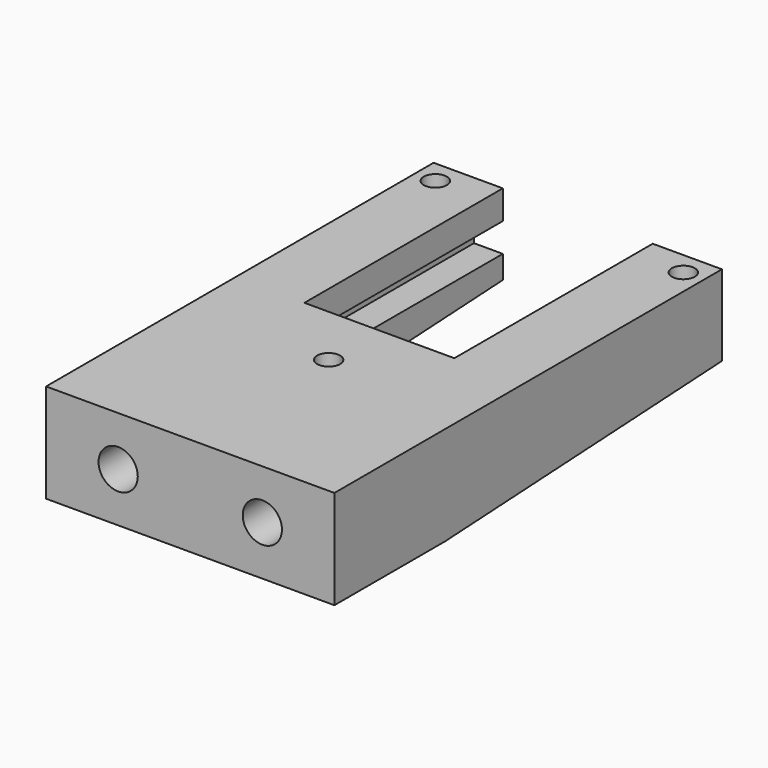
from build123d import *

# Parameters (mm, degrees)
SKETCH_W        = 50
SKETCH_H        = 60
PAD_DEPTH       = 4
SKETCH001_W     = 26
SKETCH001_H     = 26
POCKET_DEPTH    = 5
SKETCH003_W     = 50
SKETCH003_H     = 17
PAD001_DEPTH    = 10
SKETCH004_W     = 12
SKETCH004_H     = 43
PAD002_DEPTH    = 10
SKETCH005_W     = 12
SKETCH005_H     = 43
PAD003_DEPTH    = 10
SKETCH006_W     = 50
SKETCH006_H     = 5
POCKET001_DEPTH = 5
SKETCH007_W     = 50
SKETCH007_H     = 5
POCKET002_DEPTH = 5
SKETCH008_W     = 26
SKETCH008_H     = 5
POCKET003_DEPTH = 7
SKETCH009_R     = 2
POCKET004_DEPTH = 15
SKETCH010_R     = 2
POCKET005_DEPTH = 15
SKETCH011_R     = 2
POCKET006_DEPTH = 15
SKETCH014_W     = 26
SKETCH014_H     = 17
POCKET008_DEPTH = 5
SKETCH015_W     = 50
SKETCH015_H     = 60
PAD005_DEPTH    = 3.1445
POCKET009_DEPTH = 50
SKETCH018_W     = 26
SKETCH018_H     = 43
POCKET010_DEPTH = 5
SKETCH019_W     = 50
SKETCH019_H     = 17.1445
PAD006_DEPTH    = 24
SKETCH020_R     = 3.4
POCKET011_DEPTH = 24
SKETCH021_R     = 3.4
POCKET012_DEPTH = 24


with BuildPart() as part:
    # Sketch → Pad (new body)
    with BuildSketch(Plane.XY):
        with Locations((-25, -30)):
            Rectangle(SKETCH_W, SKETCH_H)
    extrude(amount=PAD_DEPTH)

    # Sketch001 → Pocket (cut)
    with BuildSketch(Plane.XY.offset(4)):
        with Locations((-25, -30)):
            Rectangle(SKETCH001_W, SKETCH001_H)
    extrude(amount=-POCKET_DEPTH, mode=Mode.SUBTRACT)

    # Sketch003 → Pad001 (new body)
    with BuildSketch(Plane.XY.offset(4)):
        with Locations((-25, -51.5)):
            Rectangle(SKETCH003_W, SKETCH003_H)
    extrude(amount=PAD001_DEPTH)

    # Sketch004 → Pad002 (new body)
    with BuildSketch(Plane.XY.offset(4)):
        with Locations((-44, -21.5)):
            Rectangle(SKETCH004_W, SKETCH004_H)
    extrude(amount=PAD002_DEPTH)

    # Sketch005 → Pad003 (new body)
    with BuildSketch(Plane.XY.offset(4)):
        with Locations((-6, -21.5)):
            Rectangle(SKETCH005_W, SKETCH005_H)
    extrude(amount=PAD003_DEPTH)

    # Sketch006 → Pocket001 (cut)
    with BuildSketch(Plane.YZ.offset(-38)):
        with Locations((-25, 6.5)):
            Rectangle(SKETCH006_W, SKETCH006_H)
    extrude(amount=-POCKET001_DEPTH, mode=Mode.SUBTRACT)

    # Sketch007 → Pocket002 (cut)
    with BuildSketch(Plane(origin=(-12, 0, 0), x_dir=(0, -1, 0), z_dir=(-1, 0, 0))):
        with Locations((25, 6.5)):
            Rectangle(SKETCH007_W, SKETCH007_H)
    extrude(amount=-POCKET002_DEPTH, mode=Mode.SUBTRACT)

    # Sketch008 → Pocket003 (cut)
    with BuildSketch(Plane(origin=(0, -43, 0), x_dir=(-1, 0, 0), z_dir=(0, 1, 0))):
        with Locations((25, 6.5)):
            Rectangle(SKETCH008_W, SKETCH008_H)
    extrude(amount=-POCKET003_DEPTH, mode=Mode.SUBTRACT)

    # Sketch009 → Pocket004 (cut)
    with BuildSketch(Plane.XY.offset(14)):
        with Locations((-25, -54)):
            Circle(SKETCH009_R)
    extrude(amount=-POCKET004_DEPTH, mode=Mode.SUBTRACT)

    # Sketch010 → Pocket005 (cut)
    with BuildSketch(Plane.XY.offset(14)):
        with Locations((-46.5, -4)):
            Circle(SKETCH010_R)
    extrude(amount=-POCKET005_DEPTH, mode=Mode.SUBTRACT)

    # Sketch011 → Pocket006 (cut)
    with BuildSketch(Plane.XY.offset(14)):
        with Locations((-3.5, -4)):
            Circle(SKETCH011_R)
    extrude(amount=-POCKET006_DEPTH, mode=Mode.SUBTRACT)

    # Sketch014 → Pocket008 (cut)
    with BuildSketch(Plane.XY.offset(4)):
        with Locations((-25, -8.5)):
            Rectangle(SKETCH014_W, SKETCH014_H)
    extrude(amount=-POCKET008_DEPTH, mode=Mode.SUBTRACT)

    # Sketch015 → Pad005 (new body)
    with BuildSketch(Plane(origin=(0, 0, 0), x_dir=(1, 0, 0), z_dir=(0, 0, -1))):
        with Locations((-25, 30)):
            Rectangle(SKETCH015_W, SKETCH015_H)
    extrude(amount=PAD005_DEPTH)

    # Sketch017 → Pocket009 (cut)
    with BuildSketch(Plane(origin=(-50, 0, 0), x_dir=(0, -1, 0), z_dir=(-1, 0, 0))):
        Polygon((0, 0), (0, -3.1445), (60, -3.1445), align=None)
    extrude(amount=-POCKET009_DEPTH, mode=Mode.SUBTRACT)

    # Sketch018 → Pocket010 (cut)
    with BuildSketch(Plane.XY):
        with Locations((-25, -21.5)):
            Rectangle(SKETCH018_W, SKETCH018_H)
    extrude(amount=-POCKET010_DEPTH, mode=Mode.SUBTRACT)

    # Sketch019 → Pad006 (new body)
    with BuildSketch(Plane.XZ.offset(60)):
        with Locations((-25, 5.42775)):
            Rectangle(SKETCH019_W, SKETCH019_H)
    extrude(amount=PAD006_DEPTH)

    # Sketch020 → Pocket011 (cut)
    with BuildSketch(Plane.XZ.offset(84)):
        with Locations((-37.5, 5.4277)):
            Circle(SKETCH020_R)
    extrude(amount=-POCKET011_DEPTH, mode=Mode.SUBTRACT)

    # Sketch021 → Pocket012 (cut)
    with BuildSketch(Plane.XZ.offset(84)):
        with Locations((-12.5, 5.4277)):
            Circle(SKETCH021_R)
    extrude(amount=-POCKET012_DEPTH, mode=Mode.SUBTRACT)


solid = part.part
